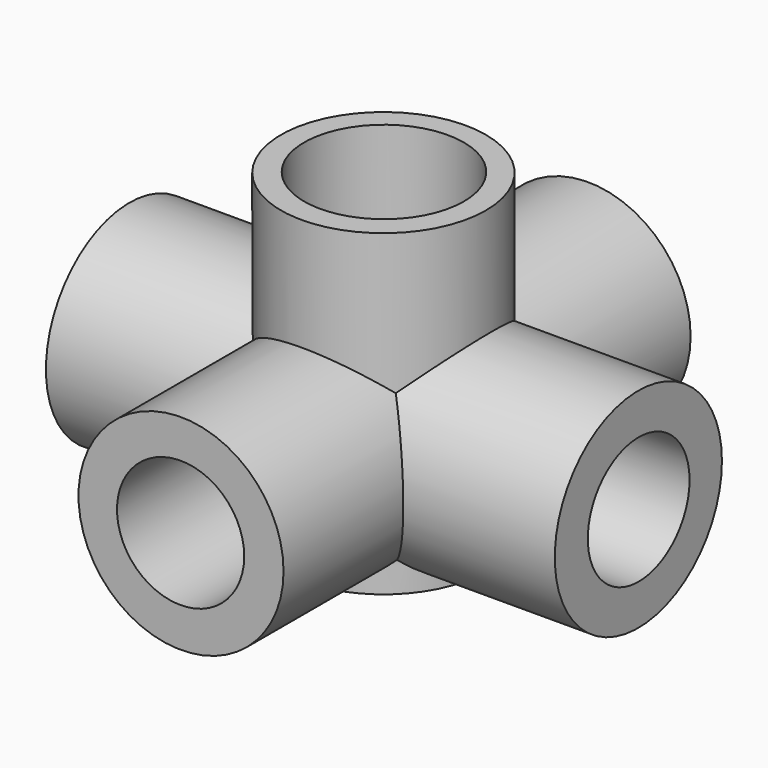
from build123d import *

# Parameters (mm, degrees)
F0_R          = 20.4722897729
F1_DEPTH      = 50.8
F1_DEPTH_BACK = 50.8
F2_R          = 20.4564593568
F3_DEPTH      = 63.5
F4_R          = 20.8575671835
F5_DEPTH      = 50.8
F5_DEPTH_BACK = 50.8
F7_D          = 25.4
F7_DEPTH      = 50.8010001
F9_D          = 25.4
F9_DEPTH      = 50.8010001
F10_D         = 25.4
F10_DEPTH     = 50.8010001
F12_D         = 25.4
F12_DEPTH     = 50.8010001
F13_R         = 15.9541661759
F14_DEPTH     = 84.582


with BuildPart() as f1:
    # F0 (on Front) → F1 (new body, two sides)
    with BuildSketch(Plane.XZ) as f1_sk:
        with Locations((0.0698582371, 20.5980222672)):
            Circle(F0_R)
    extrude(amount=F1_DEPTH)
    extrude(f1_sk.sketch, amount=-F1_DEPTH_BACK)

    # F2 (on Top) → F3 (join)
    with BuildSketch(Plane.XY):
        with Locations((0.0700604942, -0.2802451781)):
            Circle(F2_R)
    extrude(amount=F3_DEPTH)

    # F4 (on Right) → F5 (join, two sides)
    with BuildSketch(Plane.YZ) as f5_sk:
        with Locations((-0.070060727, 20.7381453365)):
            Circle(F4_R)
    extrude(amount=F5_DEPTH)
    extrude(f5_sk.sketch, amount=-F5_DEPTH_BACK)

    # F7 (through all, one way)
    with BuildSketch(Plane.YZ):
        with Locations((0.0089935729, 20.6102058291)):
            Circle(F7_D / 2)
    extrude(amount=-F7_DEPTH, mode=Mode.SUBTRACT)

    # F9 (through all, one way)
    with BuildSketch(Plane.XZ):
        with Locations((0.0698582371, 20.5980222672)):
            Circle(F9_D / 2)
    extrude(amount=-F9_DEPTH, mode=Mode.SUBTRACT)

    # F10 (through all, one way)
    with BuildSketch(Plane(origin=(0, 0, 0), x_dir=(0, 1, 0), z_dir=(-1, 0, 0))):
        with Locations((0.0132009118, -20.676555112)):
            Circle(F10_D / 2)
    extrude(amount=-F10_DEPTH, mode=Mode.SUBTRACT)

    # F12 (through all, one way)
    with BuildSketch(Plane(origin=(0, 0, 0), x_dir=(1, 0, 0), z_dir=(0, 1, 0))):
        with Locations((-0.0102481372, -20.6858739257)):
            Circle(F12_D / 2)
    extrude(amount=-F12_DEPTH, mode=Mode.SUBTRACT)

    # F13 (on Top) → F14 (cut)
    with BuildSketch(Plane.XY):
        with Locations((-0.0016765429, -0.0518179659)):
            Circle(F13_R)
    extrude(amount=F14_DEPTH, mode=Mode.SUBTRACT)


solid = f1.part
